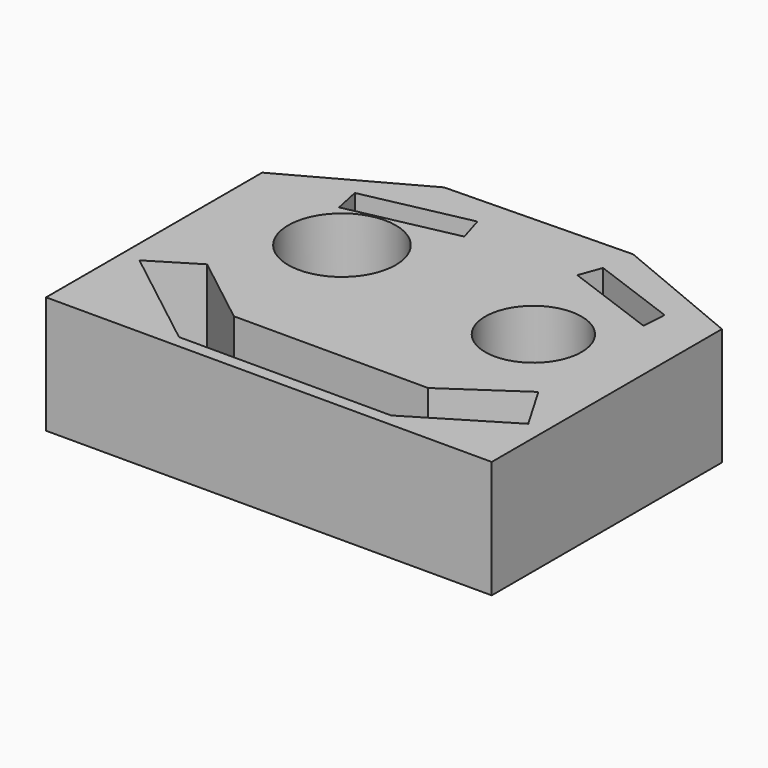
from build123d import *

# Parameters (mm, degrees)
F1_DEPTH = 14.478
F2_R     = 6.629323
F2_R_2   = 5.937499
F4_DEPTH = 25.4
F5_DEPTH = 25.4
F6_DEPTH = 3.048
F7_R     = 3.492039
F8_DEPTH = 25.4


with BuildPart() as f1:
    # F0 (on Top) → F1 (new body)
    with BuildSketch(Plane.XY):
        Polygon((10.796952, 19.020916), (-12.118302, 18.542465), (-27.716025, 10.007861), (-27.716025, -23.280972), (27.209018, -23.280972), (27.209018, 12.181873), align=None)
    extrude(amount=F1_DEPTH)

    # F2 (on face) → F4 (cut)
    with BuildSketch(Plane.XY.offset(14.478)):
        with Locations((-12.274181, 2.999703)):
            Circle(F2_R)
        with Locations((13.71629, 0)):
            Circle(F2_R_2)
    extrude(amount=-F4_DEPTH, mode=Mode.SUBTRACT)

    # F3 (on face) → F5 (cut)
    with BuildSketch(Plane.XY.offset(14.478)):
        Polygon((-11.141166, -15.069095), (-19.911459, -8.22922), (-25.51602, -11.649158), (-12.556246, -21.756373), (13.60538, -21.756373), (24.986776, -14.877899), (21.591935, -9.078152), (12.803014, -15.069095), align=None)
        Polygon((20.893362, 7.999514), (21.07358, 11.019492), (10.318228, 14.986938), (9.316061, 12.270162), align=None)
        Polygon((-5.16953, 14.986938), (-18.105717, 12.270162), (-17.412947, 8.971472), (-4.192307, 11.747987), align=None)
    extrude(amount=-F5_DEPTH, mode=Mode.SUBTRACT)

    # F0 (on Top) → F6 (join)
    with BuildSketch(Plane.XY):
        Polygon((0, 30.222755), (-12.118302, 18.542465), (10.796952, 19.020916), align=None)
    extrude(amount=F6_DEPTH)

    # F7 (on face) → F8 (cut)
    with BuildSketch(Plane.XY.offset(3.048)):
        with Locations((-0.660675, 24.38261)):
            Circle(F7_R)
    extrude(amount=-F8_DEPTH, mode=Mode.SUBTRACT)


solid = f1.part
